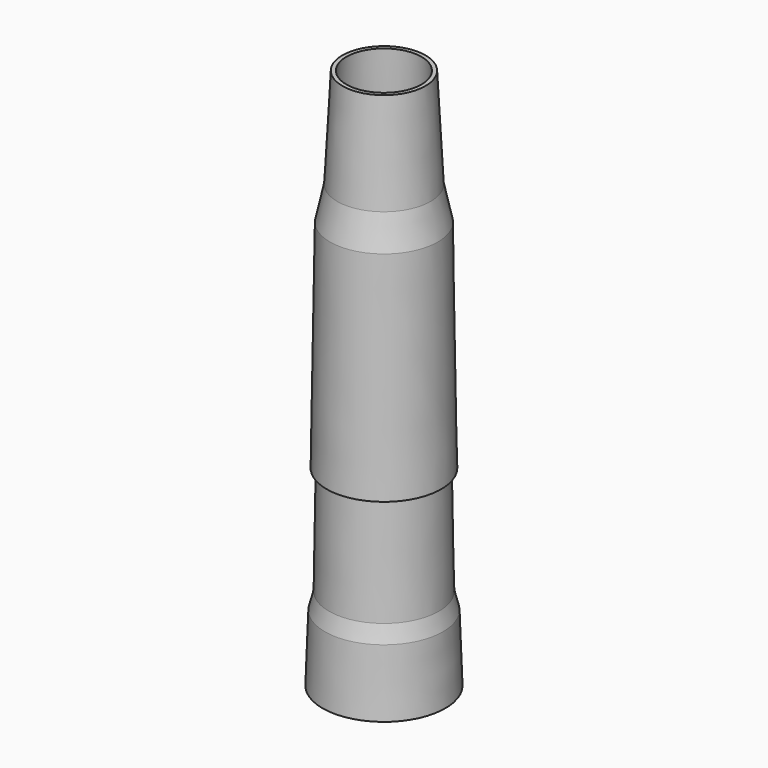
from build123d import *


with BuildPart() as f2:
    # F0 (on Front) → F2 (revolve)
    with BuildSketch(Plane.XZ):
        Polygon((-14.300142, 89.973846), (-15.5, 89.992307), (-16.5, 25), (-17.725792, 20), (-18.424208, 0), (-17.224208, 0), (-16.525792, 20), (-15.299858, 21.225934), (-15.299858, 25), align=None)
    revolve(axis=Axis((0, 0, 44.996154), (0, 0, 1)))


with BuildPart() as f3:
    # F1 (on Front) → F3 (revolve)
    with BuildSketch(Plane.XZ):
        Polygon((-17.2, 57.496154), (-16, 57.496154), (-15.000284, 122.469999), (-12.836117, 132.469999), (-11.263883, 162.469999), (-12.463883, 162.469999), (-14.036117, 132.469999), (-16.200284, 122.469999), align=None)
    revolve(axis=Axis((0, 0, 86.160094), (0, 0, 1)))


solid = Compound([f2.part, f3.part])
